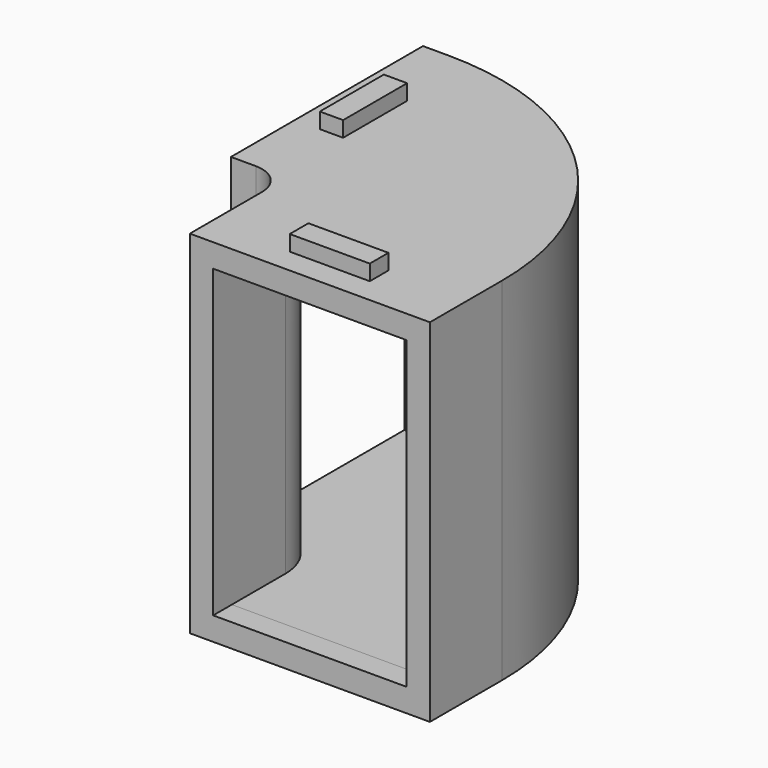
from build123d import *

# Parameters (mm, degrees)
F1_DEPTH = 35.940009
F2_T     = -2.38125
F3_W     = 19.757492
F3_H     = 31.177509
F4_DEPTH = 2.38125
F5_W     = 2.38125
F5_H     = 8.17333
F5_W_2   = 8.17333
F5_H_2   = 2.38125
F6_DEPTH = 1.5875


with BuildPart() as f1:
    # F0 (on Top) → F1 (new body)
    with BuildSketch(Plane.XY):
        with BuildLine():
            ThreePointArc((27.694992, -27.694992), (19.583316, -8.111675), (0, 0))
            Line((0, 0), (-2.54, 0))
            Line((-2.54, 0), (-2.54, -24.519992))
            Line((-2.54, -24.519992), (0, -24.519992))
            ThreePointArc((0, -24.519992), (2.245064, -25.449928), (3.175, -27.694992))
            Line((3.175, -27.694992), (3.175, -36.909985))
            Line((3.175, -36.909985), (27.694992, -36.909985))
            Line((27.694992, -36.909985), (27.694992, -27.694992))
        make_face()
    extrude(amount=F1_DEPTH)

    # F2
    f2_openings = [f1.faces().sort_by_distance(p)[0] for p in [
        (-2.54, -12.259996, 17.970005),
    ]]
    offset(amount=F2_T, openings=f2_openings)

    # F3 (on face) → F4 (cut)
    with BuildSketch(Plane.XZ.offset(36.909985)):
        with Locations((15.434996, 17.970005)):
            Rectangle(F3_W, F3_H)
    extrude(amount=-F4_DEPTH, mode=Mode.SUBTRACT)

    # F5 (on face) → F6 (join)
    with BuildSketch(Plane.XY.offset(35.940009)):
        with Locations((1.190625, -12.259996)):
            Rectangle(F5_W, F5_H)
        with Locations((15.434996, -33.17936)):
            Rectangle(F5_W_2, F5_H_2)
    extrude(amount=F6_DEPTH)


solid = f1.part
